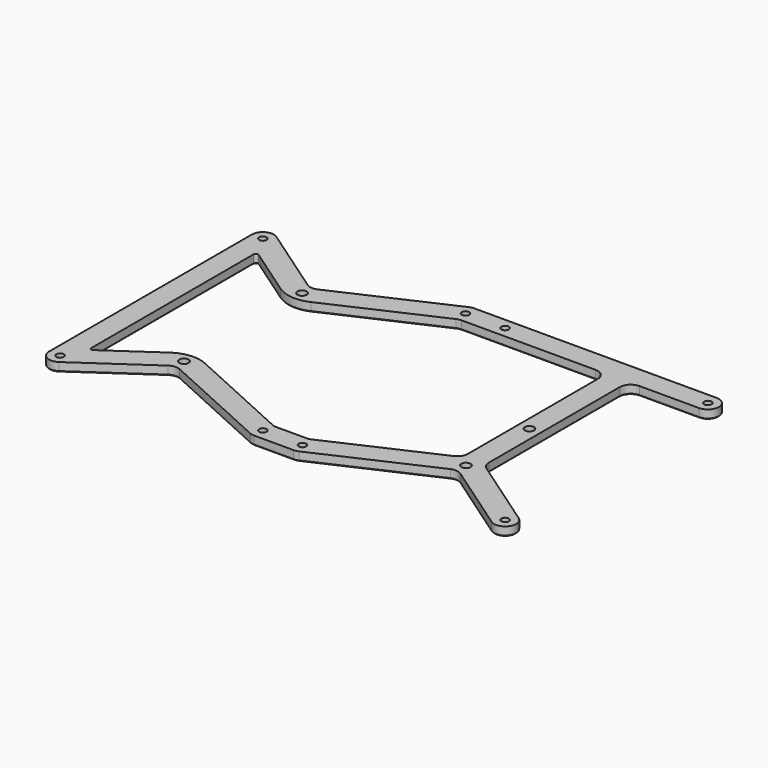
from build123d import *

# Parameters (mm, degrees)
F3_DEPTH = 4
F0_R     = 2.1
F1_R     = 1.7
F4_DEPTH = 4.001
F5_SIZE  = 0.4


with BuildPart() as f3:
    # F2 (on Top) → F3 (new body)
    with BuildSketch(Plane.XY):
        with BuildLine():
            ThreePointArc((-106, -57.5), (-103.322028, -61.928113), (-98.156725, -61.612881))
            Line((-98.156725, -61.612881), (-66.331389, -39.611712))
            ThreePointArc((-66.331389, -39.611712), (-63.933431, -38.744463), (-61.419649, -39.172511))
            Line((-61.419649, -39.172511), (-11.068465, -62.052082))
            ThreePointArc((-11.068465, -62.052082), (-10.058204, -62.386738), (-9, -62.5))
            Line((-9, -62.5), (9, -62.5))
            ThreePointArc((9, -62.5), (10.058204, -62.386738), (11.068465, -62.052082))
            Line((11.068465, -62.052082), (61.419649, -39.172511))
            ThreePointArc((61.419649, -39.172511), (63.933431, -38.744463), (66.331389, -39.611712))
            Line((66.331389, -39.611712), (98.156725, -61.612881))
            ThreePointArc((98.156725, -61.612881), (105.112881, -60.343275), (103.843275, -53.387119))
            Line((103.843275, -53.387119), (71.156725, -30.790585))
            ThreePointArc((71.156725, -30.790585), (69.571887, -28.999732), (69, -26.677705))
            Line((69, -26.677705), (69, 47.5))
            ThreePointArc((69, 47.5), (70.464466, 51.035534), (74, 52.5))
            Line((74, 52.5), (101, 52.5))
            ThreePointArc((101, 52.5), (106, 57.5), (101, 62.5))
            Line((101, 62.5), (-9, 62.5))
            ThreePointArc((-9, 62.5), (-10.058204, 62.386738), (-11.068465, 62.052082))
            Line((-11.068465, 62.052082), (-61.419649, 39.172511))
            ThreePointArc((-61.419649, 39.172511), (-63.933431, 38.744463), (-66.331389, 39.611712))
            Line((-66.331389, 39.611712), (-98.156725, 61.612881))
            ThreePointArc((-98.156725, 61.612881), (-103.322028, 61.928113), (-106, 57.5))
            Line((-106, 57.5), (-106, -57.5))
        make_face()
        with BuildLine():
            Line((-8.903005, -52.052082), (-57.282718, -30.068347))
            ThreePointArc((-57.282718, -30.068347), (-64.824064, -28.784204), (-72.017939, -31.385951))
            Line((-72.017939, -31.385951), (-94.431345, -46.880559))
            ThreePointArc((-94.431345, -46.880559), (-95.464406, -46.943606), (-96, -46.057983))
            Line((-96, -46.057983), (-96, 46.057983))
            ThreePointArc((-96, 46.057983), (-95.464406, 46.943606), (-94.431345, 46.880559))
            Line((-94.431345, 46.880559), (-72.017939, 31.385951))
            ThreePointArc((-72.017939, 31.385951), (-64.824064, 28.784204), (-57.282718, 30.068347))
            Line((-57.282718, 30.068347), (-8.903005, 52.052082))
            ThreePointArc((-8.903005, 52.052082), (-7.892743, 52.386738), (-6.83454, 52.5))
            Line((-6.83454, 52.5), (54, 52.5))
            ThreePointArc((54, 52.5), (57.535534, 51.035534), (59, 47.5))
            Line((59, 47.5), (59, -26.068021))
            ThreePointArc((59, -26.068021), (58.203708, -28.775204), (56.068465, -30.620103))
            Line((56.068465, -30.620103), (8.903005, -52.052082))
            ThreePointArc((8.903005, -52.052082), (7.892743, -52.386738), (6.83454, -52.5))
            Line((6.83454, -52.5), (-6.83454, -52.5))
            ThreePointArc((-6.83454, -52.5), (-7.892743, -52.386738), (-8.903005, -52.052082))
        make_face(mode=Mode.SUBTRACT)
    extrude(amount=F3_DEPTH)

    # F0 (on Top) + F1 (on Top) → F4 (cut, through all)
    with BuildSketch(Plane.XY):
        with Locations((-64, 33.5)):
            Circle(F0_R)
        with Locations((-64, -33.5)):
            Circle(F0_R)
        with Locations((64, -33.5)):
            Circle(F0_R)
        with Locations((64, 2.5)):
            Circle(F0_R)
    with BuildSketch(Plane.XY):
        with Locations((-101, -57.5)):
            Circle(F1_R)
        with Locations((-101, 57.5)):
            Circle(F1_R)
        with Locations((-9, 57.5)):
            Circle(F1_R)
        with Locations((9, 57.5)):
            Circle(F1_R)
        with Locations((-9, -57.5)):
            Circle(F1_R)
        with Locations((9, -57.5)):
            Circle(F1_R)
        with Locations((101, -57.5)):
            Circle(F1_R)
        with Locations((101, 57.5)):
            Circle(F1_R)
    extrude(amount=F4_DEPTH, mode=Mode.SUBTRACT)

    # F5
    f5_edges = [f3.edges().sort_by_distance(p)[0] for p in [
        (-36.244057, 50.612297, 0),
        (-10.058204, 62.386738, 0),
        (-63.933431, 38.744463, 0),
        (46, 62.5, 0),
        (-82.244057, 50.612297, 0),
        (106, 57.5, 0),
        (-103.322028, 61.928113, 0),
        (87.5, 52.5, 0),
        (-106, 0, 0),
        (70.464466, 51.035534, 0),
        (-103.322028, -61.928113, 0),
        (69, 10.411148, 0),
        (-82.244057, -50.612297, 0),
        (69.571887, -28.999732, 0),
        (-63.933431, -38.744463, 0),
        (87.5, -42.088852, 0),
        (-36.244057, -50.612297, 0),
        (105.112881, -60.343275, 0),
        (-10.058204, -62.386738, 0),
        (82.244057, -50.612297, 0),
        (0, -62.5, 0),
        (63.933431, -38.744463, 0),
        (10.058204, -62.386738, 0),
        (36.244057, -50.612297, 0),
        (-102.7, -57.5, 0),
        (-66.1, -33.5, 0),
        (-10.7, -57.5, 0),
        (-33.092862, -41.060215, 0),
        (-7.892743, -52.386738, 0),
        (-64.824064, -28.784204, 0),
        (0, -52.5, 0),
        (-83.224642, -39.133255, 0),
        (7.892743, -52.386738, 0),
        (-95.464406, -46.943606, 0),
        (32.485735, -41.336093, 0),
        (-96, 0, 0),
        (58.203708, -28.775204, 0),
        (-95.464406, 46.943606, 0),
        (59, 10.715989, 0),
        (-83.224642, 39.133255, 0),
        (57.535534, 51.035534, 0),
        (-64.824064, 28.784204, 0),
        (23.58273, 52.5, 0),
        (-33.092862, 41.060215, 0),
        (-7.892743, 52.386738, 0),
        (7.3, -57.5, 0),
        (99.3, -57.5, 0),
        (61.9, -33.5, 0),
        (-66.1, 33.5, 0),
        (-102.7, 57.5, 0),
        (-10.7, 57.5, 0),
        (61.9, 2.5, 0),
        (7.3, 57.5, 0),
        (99.3, 57.5, 0),
    ]]
    chamfer(f5_edges, length=F5_SIZE)


solid = f3.part
